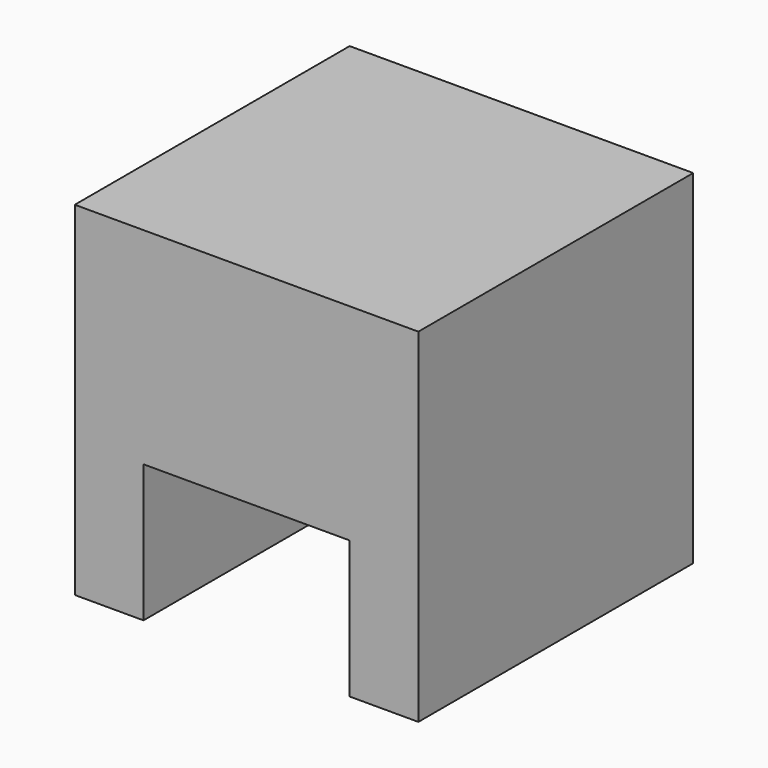
from build123d import *

# Parameters (mm, degrees)
F0_W     = 100
F0_H     = 100
F1_DEPTH = 100
F2_W     = 100
F2_H     = 64.8081071675
F3_DEPTH = 40
F4_W     = 60
F4_H     = 40
F5_DEPTH = 100.001
F6_DEPTH = 40


with BuildPart() as f1:
    # F0 (on Top) → F1 (new body)
    with BuildSketch(Plane.XY):
        Rectangle(F0_W, F0_H)
    extrude(amount=F1_DEPTH)

    # F2 (on face) → F3 (cut)
    with BuildSketch(Plane.XY.offset(100)):
        with Locations((0, -17.5959464163)):
            Rectangle(F2_W, F2_H)
    extrude(amount=-F3_DEPTH, mode=Mode.SUBTRACT)

    # F4 (on face) → F5 (cut, through all)
    with BuildSketch(Plane.XZ.offset(50)):
        with Locations((0, 20)):
            Rectangle(F4_W, F4_H)
    extrude(amount=-F5_DEPTH, mode=Mode.SUBTRACT)

    # F6 (add): a face of the model
    f6_faces = [f1.faces().sort_by_distance(p)[0] for p in [
        (0, -17.5959464163, 60),
    ]]
    extrude(f6_faces, amount=F6_DEPTH)


solid = f1.part
